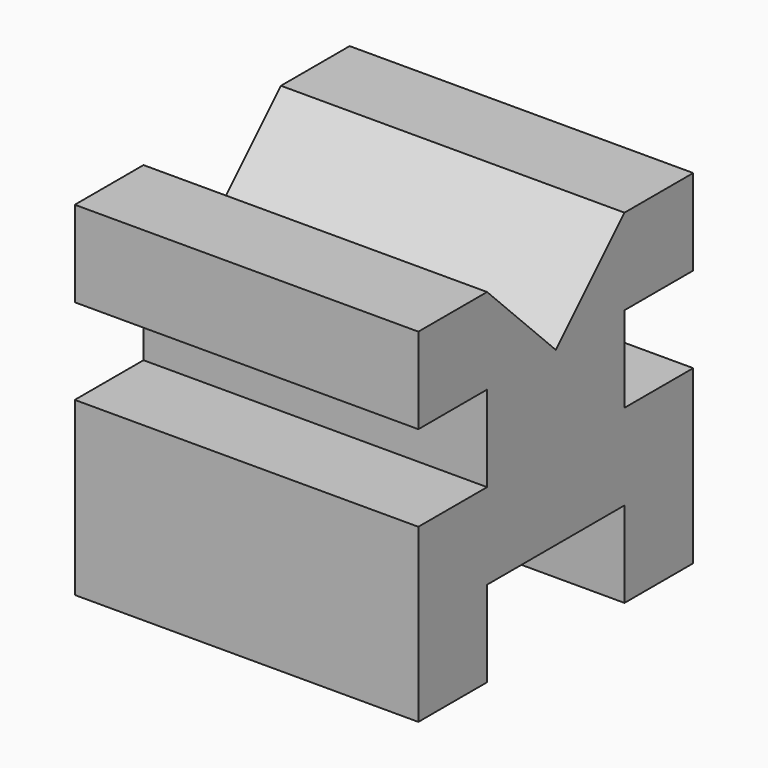
from build123d import *

# Parameters (mm, degrees)
F0_W     = 101.6
F0_H     = 25.4
F0_H_2   = 50.8
F1_DEPTH = 101.6
F2_W     = 101.6
F2_H     = 25.4
F3_DEPTH = 25.4
F4_W     = 50.8
F4_H     = 25.4
F5_DEPTH = 101.6
F6_W     = 25.4
F6_H     = 25.4
F7_DEPTH = 101.6
F9_DEPTH = 101.6


with BuildPart() as f1:
    # F0 (on Front) → F1 (new body)
    with BuildSketch(Plane.XZ):
        with Locations((-50.8, 38.1)):
            Rectangle(F0_W, F0_H)
        with Locations((-50.8, -25.4)):
            Rectangle(F0_W, F0_H_2)
        with Locations((-50.8, 12.7)):
            Rectangle(F0_W, F0_H)
    extrude(amount=F1_DEPTH)

    # F2 (on face) → F3 (cut)
    with BuildSketch(Plane.XZ.offset(101.6)):
        with Locations((-50.8, 12.7)):
            Rectangle(F2_W, F2_H)
    extrude(amount=-F3_DEPTH, mode=Mode.SUBTRACT)

    # F4 (on face) → F5 (cut)
    with BuildSketch(Plane.YZ):
        with Locations((-50.8, -38.1)):
            Rectangle(F4_W, F4_H)
    extrude(amount=-F5_DEPTH, mode=Mode.SUBTRACT)

    # F6 (on face) → F7 (cut)
    with BuildSketch(Plane.YZ):
        with Locations((-12.7, 12.7)):
            Rectangle(F6_W, F6_H)
    extrude(amount=-F7_DEPTH, mode=Mode.SUBTRACT)

    # F8 (on face) → F9 (cut)
    with BuildSketch(Plane.YZ):
        Polygon((-25.4, 50.8), (-76.2, 50.8), (-50.8, 25.4), align=None)
    extrude(amount=-F9_DEPTH, mode=Mode.SUBTRACT)


solid = f1.part
